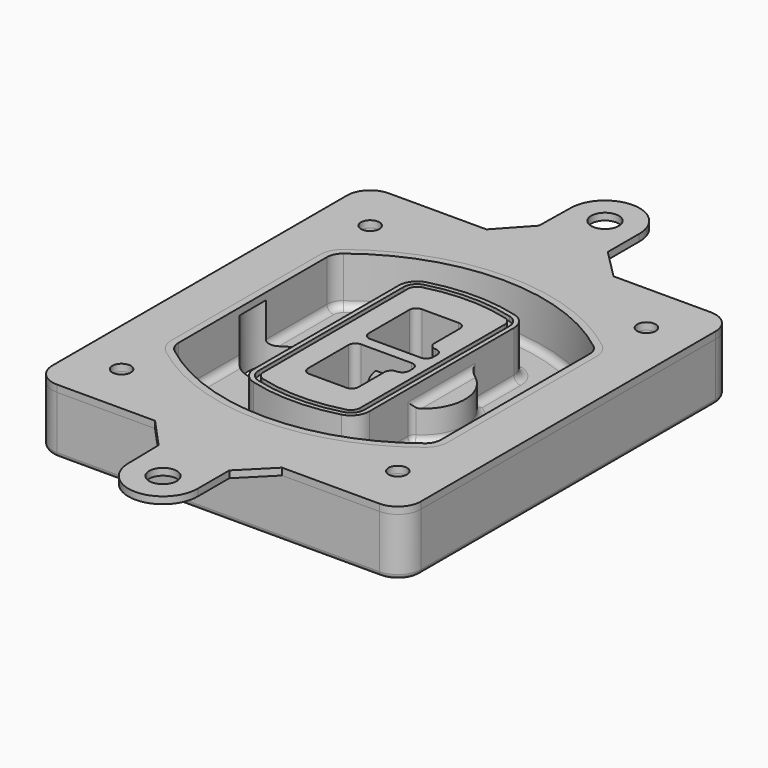
from build123d import *

# Parameters (mm, degrees)
F0_R      = 4
F1_DEPTH  = 25
F2_DEPTH  = 3
F3_DEPTH  = 18
F5_DEPTH  = 21
F6_DEPTH  = 2
F8_DEPTH  = 20
F9_DEPTH  = 16
F10_DEPTH = 25
F7_R      = 6
F7_R_2    = 4
F11_DEPTH = 6
F13_DEPTH = 9
F14_R     = 3
F15_R     = 2
F16_R     = 4
F16_R_2   = 6
F17_DEPTH = 3


with BuildPart() as f1:
    # F0 (on Top) → F1 (new body)
    with BuildSketch(Plane.XY):
        with BuildLine():
            ThreePointArc((-80, -80), (-77.0710678119, -87.0710678119), (-70, -90))
            Line((-70, -90), (70, -90))
            ThreePointArc((70, -90), (77.0710678119, -87.0710678119), (80, -80))
            Line((80, -80), (80, 80))
            ThreePointArc((80, 80), (77.0710678119, 87.0710678119), (70, 90))
            Line((70, 90), (-70, 90))
            ThreePointArc((-70, 90), (-77.0710678119, 87.0710678119), (-80, 80))
            Line((-80, 80), (-80, -80))
        make_face()
        with Locations((-60, -67.5)):
            Circle(F0_R, mode=Mode.SUBTRACT)
        with Locations((60, -67.5)):
            Circle(F0_R, mode=Mode.SUBTRACT)
        with Locations((-60, 67.5)):
            Circle(F0_R, mode=Mode.SUBTRACT)
        with BuildLine():
            ThreePointArc((-64, 40.2934422872), (-62.5820384798, 46.4328484224), (-58.6153846154, 51.3286200352))
            ThreePointArc((-58.6153846154, 51.3286200352), (0, 71.5), (58.6153846154, 51.3286200352))
            ThreePointArc((58.6153846154, 51.3286200352), (62.5820384798, 46.4328484224), (64, 40.2934422872))
            Line((64, 40.2934422872), (64, -40.2934422872))
            ThreePointArc((64, -40.2934422872), (62.5820384798, -46.4328484224), (58.6153846154, -51.3286200352))
            ThreePointArc((58.6153846154, -51.3286200352), (0, -71.5), (-58.6153846154, -51.3286200352))
            ThreePointArc((-58.6153846154, -51.3286200352), (-62.5820384798, -46.4328484224), (-64, -40.2934422872))
            Line((-64, -40.2934422872), (-64, 40.2934422872))
        make_face(mode=Mode.SUBTRACT)
        with Locations((60, 67.5)):
            Circle(F0_R, mode=Mode.SUBTRACT)
        with BuildLine():
            ThreePointArc((58.6153846154, 51.3286200352), (0, 71.5), (-58.6153846154, 51.3286200352))
            ThreePointArc((-58.6153846154, 51.3286200352), (-62.5820384798, 46.4328484224), (-64, 40.2934422872))
            Line((-64, 40.2934422872), (-64, -40.2934422872))
            ThreePointArc((-64, -40.2934422872), (-62.5820384798, -46.4328484224), (-58.6153846154, -51.3286200352))
            ThreePointArc((-58.6153846154, -51.3286200352), (0, -71.5), (58.6153846154, -51.3286200352))
            ThreePointArc((58.6153846154, -51.3286200352), (62.5820384798, -46.4328484224), (64, -40.2934422872))
            Line((64, -40.2934422872), (64, 40.2934422872))
            ThreePointArc((64, 40.2934422872), (62.5820384798, 46.4328484224), (58.6153846154, 51.3286200352))
        make_face()
        with BuildLine():
            Line((-60, -40.2934422872), (-60, 40.2934422872))
            ThreePointArc((-60, 40.2934422872), (-58.9871703427, 44.6787323838), (-56.1538461538, 48.1757121072))
            ThreePointArc((-56.1538461538, 48.1757121072), (0, 67.5), (56.1538461538, 48.1757121072))
            ThreePointArc((56.1538461538, 48.1757121072), (58.9871703427, 44.6787323838), (60, 40.2934422872))
            Line((60, 40.2934422872), (60, -40.2934422872))
            ThreePointArc((60, -40.2934422872), (58.9871703427, -44.6787323838), (56.1538461538, -48.1757121072))
            ThreePointArc((56.1538461538, -48.1757121072), (0, -67.5), (-56.1538461538, -48.1757121072))
            ThreePointArc((-56.1538461538, -48.1757121072), (-58.9871703427, -44.6787323838), (-60, -40.2934422872))
        make_face(mode=Mode.SUBTRACT)
        with BuildLine():
            ThreePointArc((-56.1538461538, 48.1757121072), (-58.9871703427, 44.6787323838), (-60, 40.2934422872))
            Line((-60, 40.2934422872), (-60, -40.2934422872))
            ThreePointArc((-60, -40.2934422872), (-58.9871703427, -44.6787323838), (-56.1538461538, -48.1757121072))
            ThreePointArc((-56.1538461538, -48.1757121072), (0, -67.5), (56.1538461538, -48.1757121072))
            ThreePointArc((56.1538461538, -48.1757121072), (58.9871703427, -44.6787323838), (60, -40.2934422872))
            Line((60, -40.2934422872), (60, 40.2934422872))
            ThreePointArc((60, 40.2934422872), (58.9871703427, 44.6787323838), (56.1538461538, 48.1757121072))
            ThreePointArc((56.1538461538, 48.1757121072), (0, 67.5), (-56.1538461538, 48.1757121072))
        make_face()
        with BuildLine():
            ThreePointArc((54.3076923077, 45.8110311612), (56.2910192399, 43.3631453548), (57, 40.2934422872))
            Line((57, 40.2934422872), (57, -40.2934422872))
            ThreePointArc((57, -40.2934422872), (56.2910192399, -43.3631453548), (54.3076923077, -45.8110311612))
            ThreePointArc((54.3076923077, -45.8110311612), (0, -64.5), (-54.3076923077, -45.8110311612))
            ThreePointArc((-54.3076923077, -45.8110311612), (-56.2910192399, -43.3631453548), (-57, -40.2934422872))
            Line((-57, -40.2934422872), (-57, 40.2934422872))
            ThreePointArc((-57, 40.2934422872), (-56.2910192399, 43.3631453548), (-54.3076923077, 45.8110311612))
            ThreePointArc((-54.3076923077, 45.8110311612), (0, 64.5), (54.3076923077, 45.8110311612))
        make_face(mode=Mode.SUBTRACT)
        with BuildLine():
            Line((57, -40.2934422872), (57, 40.2934422872))
            ThreePointArc((57, 40.2934422872), (56.2910192399, 43.3631453548), (54.3076923077, 45.8110311612))
            ThreePointArc((54.3076923077, 45.8110311612), (0, 64.5), (-54.3076923077, 45.8110311612))
            ThreePointArc((-54.3076923077, 45.8110311612), (-56.2910192399, 43.3631453548), (-57, 40.2934422872))
            Line((-57, 40.2934422872), (-57, -40.2934422872))
            ThreePointArc((-57, -40.2934422872), (-56.2910192399, -43.3631453548), (-54.3076923077, -45.8110311612))
            ThreePointArc((-54.3076923077, -45.8110311612), (0, -64.5), (54.3076923077, -45.8110311612))
            ThreePointArc((54.3076923077, -45.8110311612), (56.2910192399, -43.3631453548), (57, -40.2934422872))
        make_face()
    extrude(amount=-F1_DEPTH)

    # F0 (on Top) → F2 (join)
    with BuildSketch(Plane.XY):
        with BuildLine():
            ThreePointArc((-56.1538461538, 48.1757121072), (-58.9871703427, 44.6787323838), (-60, 40.2934422872))
            Line((-60, 40.2934422872), (-60, -40.2934422872))
            ThreePointArc((-60, -40.2934422872), (-58.9871703427, -44.6787323838), (-56.1538461538, -48.1757121072))
            ThreePointArc((-56.1538461538, -48.1757121072), (0, -67.5), (56.1538461538, -48.1757121072))
            ThreePointArc((56.1538461538, -48.1757121072), (58.9871703427, -44.6787323838), (60, -40.2934422872))
            Line((60, -40.2934422872), (60, 40.2934422872))
            ThreePointArc((60, 40.2934422872), (58.9871703427, 44.6787323838), (56.1538461538, 48.1757121072))
            ThreePointArc((56.1538461538, 48.1757121072), (0, 67.5), (-56.1538461538, 48.1757121072))
        make_face()
        with BuildLine():
            ThreePointArc((54.3076923077, 45.8110311612), (56.2910192399, 43.3631453548), (57, 40.2934422872))
            Line((57, 40.2934422872), (57, -40.2934422872))
            ThreePointArc((57, -40.2934422872), (56.2910192399, -43.3631453548), (54.3076923077, -45.8110311612))
            ThreePointArc((54.3076923077, -45.8110311612), (0, -64.5), (-54.3076923077, -45.8110311612))
            ThreePointArc((-54.3076923077, -45.8110311612), (-56.2910192399, -43.3631453548), (-57, -40.2934422872))
            Line((-57, -40.2934422872), (-57, 40.2934422872))
            ThreePointArc((-57, 40.2934422872), (-56.2910192399, 43.3631453548), (-54.3076923077, 45.8110311612))
            ThreePointArc((-54.3076923077, 45.8110311612), (0, 64.5), (54.3076923077, 45.8110311612))
        make_face(mode=Mode.SUBTRACT)
    extrude(amount=F2_DEPTH)

    # F0 (on Top) → F3 (cut)
    with BuildSketch(Plane.XY):
        with BuildLine():
            Line((57, -40.2934422872), (57, 40.2934422872))
            ThreePointArc((57, 40.2934422872), (56.2910192399, 43.3631453548), (54.3076923077, 45.8110311612))
            ThreePointArc((54.3076923077, 45.8110311612), (0, 64.5), (-54.3076923077, 45.8110311612))
            ThreePointArc((-54.3076923077, 45.8110311612), (-56.2910192399, 43.3631453548), (-57, 40.2934422872))
            Line((-57, 40.2934422872), (-57, -40.2934422872))
            ThreePointArc((-57, -40.2934422872), (-56.2910192399, -43.3631453548), (-54.3076923077, -45.8110311612))
            ThreePointArc((-54.3076923077, -45.8110311612), (0, -64.5), (54.3076923077, -45.8110311612))
            ThreePointArc((54.3076923077, -45.8110311612), (56.2910192399, -43.3631453548), (57, -40.2934422872))
        make_face()
    extrude(amount=-F3_DEPTH, mode=Mode.SUBTRACT)

    # F4 (on face) → F5 (join, through all)
    with BuildSketch(Plane.XY.offset(3)):
        with BuildLine():
            ThreePointArc((-25, -39.2465276821), (-23.3511545998, -44.1109737193), (-19.0842911877, -46.9702398883))
            ThreePointArc((-19.0842911877, -46.9702398883), (0, -49.5), (19.0842911877, -46.9702398883))
            ThreePointArc((19.0842911877, -46.9702398883), (23.3511545998, -44.1109737193), (25, -39.2465276821))
            Line((25, -39.2465276821), (25, 39.2465276821))
            ThreePointArc((25, 39.2465276821), (23.3511545998, 44.1109737193), (19.0842911877, 46.9702398883))
            ThreePointArc((19.0842911877, 46.9702398883), (0, 49.5), (-19.0842911877, 46.9702398883))
            ThreePointArc((-19.0842911877, 46.9702398883), (-23.3511545998, 44.1109737193), (-25, 39.2465276821))
            Line((-25, 39.2465276821), (-25, -39.2465276821))
        make_face()
        with BuildLine():
            ThreePointArc((18.5632183908, 45.0393118368), (21.7633659499, 42.89486221), (23, 39.2465276821))
            Line((23, 39.2465276821), (23, -39.2465276821))
            ThreePointArc((23, -39.2465276821), (21.7633659499, -42.89486221), (18.5632183908, -45.0393118368))
            ThreePointArc((18.5632183908, -45.0393118368), (0, -47.5), (-18.5632183908, -45.0393118368))
            ThreePointArc((-18.5632183908, -45.0393118368), (-21.7633659499, -42.89486221), (-23, -39.2465276821))
            Line((-23, -39.2465276821), (-23, 39.2465276821))
            ThreePointArc((-23, 39.2465276821), (-21.7633659499, 42.89486221), (-18.5632183908, 45.0393118368))
            ThreePointArc((-18.5632183908, 45.0393118368), (0, 47.5), (18.5632183908, 45.0393118368))
        make_face(mode=Mode.SUBTRACT)
        with BuildLine():
            Line((23, -39.2465276821), (23, 39.2465276821))
            ThreePointArc((23, 39.2465276821), (21.7633659499, 42.89486221), (18.5632183908, 45.0393118368))
            ThreePointArc((18.5632183908, 45.0393118368), (0, 47.5), (-18.5632183908, 45.0393118368))
            ThreePointArc((-18.5632183908, 45.0393118368), (-21.7633659499, 42.89486221), (-23, 39.2465276821))
            Line((-23, 39.2465276821), (-23, -39.2465276821))
            ThreePointArc((-23, -39.2465276821), (-21.7633659499, -42.89486221), (-18.5632183908, -45.0393118368))
            ThreePointArc((-18.5632183908, -45.0393118368), (0, -47.5), (18.5632183908, -45.0393118368))
            ThreePointArc((18.5632183908, -45.0393118368), (21.7633659499, -42.89486221), (23, -39.2465276821))
        make_face()
        with BuildLine():
            ThreePointArc((18.0421455939, 43.1083837852), (20.1755772999, 41.6787507007), (21, 39.2465276821))
            Line((21, 39.2465276821), (21, -39.2465276821))
            ThreePointArc((21, -39.2465276821), (20.1755772999, -41.6787507007), (18.0421455939, -43.1083837852))
            ThreePointArc((18.0421455939, -43.1083837852), (0, -45.5), (-18.0421455939, -43.1083837852))
            ThreePointArc((-18.0421455939, -43.1083837852), (-20.1755772999, -41.6787507007), (-21, -39.2465276821))
            Line((-21, -39.2465276821), (-21, 39.2465276821))
            ThreePointArc((-21, 39.2465276821), (-20.1755772999, 41.6787507007), (-18.0421455939, 43.1083837852))
            ThreePointArc((-18.0421455939, 43.1083837852), (0, 45.5), (18.0421455939, 43.1083837852))
        make_face(mode=Mode.SUBTRACT)
        with BuildLine():
            Line((21, -39.2465276821), (21, 39.2465276821))
            ThreePointArc((21, 39.2465276821), (20.1755772999, 41.6787507007), (18.0421455939, 43.1083837852))
            ThreePointArc((18.0421455939, 43.1083837852), (0, 45.5), (-18.0421455939, 43.1083837852))
            ThreePointArc((-18.0421455939, 43.1083837852), (-20.1755772999, 41.6787507007), (-21, 39.2465276821))
            Line((-21, 39.2465276821), (-21, -39.2465276821))
            ThreePointArc((-21, -39.2465276821), (-20.1755772999, -41.6787507007), (-18.0421455939, -43.1083837852))
            ThreePointArc((-18.0421455939, -43.1083837852), (0, -45.5), (18.0421455939, -43.1083837852))
            ThreePointArc((18.0421455939, -43.1083837852), (20.1755772999, -41.6787507007), (21, -39.2465276821))
        make_face()
        with BuildLine():
            Line((-8, -2.5), (14, -2.5))
            ThreePointArc((14, -2.5), (16.1213203436, -3.3786796564), (17, -5.5))
            Line((17, -5.5), (17, -7.5))
            ThreePointArc((17, -7.5), (16.1213203436, -9.6213203436), (14, -10.5))
            ThreePointArc((14, -10.5), (11.8786796564, -11.3786796564), (11, -13.5))
            Line((11, -13.5), (11, -27.5))
            ThreePointArc((11, -27.5), (10.1213203436, -29.6213203436), (8, -30.5))
            Line((8, -30.5), (-8, -30.5))
            ThreePointArc((-8, -30.5), (-10.1213203436, -29.6213203436), (-11, -27.5))
            Line((-11, -27.5), (-11, -5.5))
            ThreePointArc((-11, -5.5), (-10.1213203436, -3.3786796564), (-8, -2.5))
        make_face(mode=Mode.SUBTRACT)
        with BuildLine():
            ThreePointArc((-8, 2.5), (-10.1213203436, 3.3786796564), (-11, 5.5))
            Line((-11, 5.5), (-11, 27.5))
            ThreePointArc((-11, 27.5), (-10.1213203436, 29.6213203436), (-8, 30.5))
            Line((-8, 30.5), (8, 30.5))
            ThreePointArc((8, 30.5), (10.1213203436, 29.6213203436), (11, 27.5))
            Line((11, 27.5), (11, 13.5))
            ThreePointArc((11, 13.5), (11.8786796564, 11.3786796564), (14, 10.5))
            ThreePointArc((14, 10.5), (16.1213203436, 9.6213203436), (17, 7.5))
            Line((17, 7.5), (17, 5.5))
            ThreePointArc((17, 5.5), (16.1213203436, 3.3786796564), (14, 2.5))
            Line((14, 2.5), (-8, 2.5))
        make_face(mode=Mode.SUBTRACT)
    extrude(amount=-F5_DEPTH)

    # F4 (on face) → F6 (cut)
    with BuildSketch(Plane.XY.offset(3)):
        with BuildLine():
            Line((23, -39.2465276821), (23, 39.2465276821))
            ThreePointArc((23, 39.2465276821), (21.7633659499, 42.89486221), (18.5632183908, 45.0393118368))
            ThreePointArc((18.5632183908, 45.0393118368), (0, 47.5), (-18.5632183908, 45.0393118368))
            ThreePointArc((-18.5632183908, 45.0393118368), (-21.7633659499, 42.89486221), (-23, 39.2465276821))
            Line((-23, 39.2465276821), (-23, -39.2465276821))
            ThreePointArc((-23, -39.2465276821), (-21.7633659499, -42.89486221), (-18.5632183908, -45.0393118368))
            ThreePointArc((-18.5632183908, -45.0393118368), (0, -47.5), (18.5632183908, -45.0393118368))
            ThreePointArc((18.5632183908, -45.0393118368), (21.7633659499, -42.89486221), (23, -39.2465276821))
        make_face()
        with BuildLine():
            ThreePointArc((18.0421455939, 43.1083837852), (20.1755772999, 41.6787507007), (21, 39.2465276821))
            Line((21, 39.2465276821), (21, -39.2465276821))
            ThreePointArc((21, -39.2465276821), (20.1755772999, -41.6787507007), (18.0421455939, -43.1083837852))
            ThreePointArc((18.0421455939, -43.1083837852), (0, -45.5), (-18.0421455939, -43.1083837852))
            ThreePointArc((-18.0421455939, -43.1083837852), (-20.1755772999, -41.6787507007), (-21, -39.2465276821))
            Line((-21, -39.2465276821), (-21, 39.2465276821))
            ThreePointArc((-21, 39.2465276821), (-20.1755772999, 41.6787507007), (-18.0421455939, 43.1083837852))
            ThreePointArc((-18.0421455939, 43.1083837852), (0, 45.5), (18.0421455939, 43.1083837852))
        make_face(mode=Mode.SUBTRACT)
    extrude(amount=-F6_DEPTH, mode=Mode.SUBTRACT)

    # F7 (on face) → F8 (join)
    with BuildSketch(Plane(origin=(0, 0, -25), x_dir=(1, 0, 0), z_dir=(0, 0, -1))):
        with BuildLine():
            ThreePointArc((3.28842436, 0), (16.7567035675, 13.4682792075), (30.224982775, 0))
            Line((30.224982775, 0), (35.224982775, 0))
            ThreePointArc((35.224982775, 0), (16.7567035675, 18.4682792075), (-1.71157564, 0))
            Line((-1.71157564, 0), (3.28842436, 0))
        make_face()
        with BuildLine():
            Line((3.28842436, 0), (30.224982775, 0))
            ThreePointArc((30.224982775, 0), (16.7567035675, 13.4682792075), (3.28842436, 0))
        make_face()
        with BuildLine():
            ThreePointArc((3.28842436, 0), (16.7567035675, -13.4682792075), (30.224982775, 0))
            Line((30.224982775, 0), (3.28842436, 0))
        make_face()
        with BuildLine():
            Line((35.224982775, 0), (30.224982775, 0))
            ThreePointArc((30.224982775, 0), (16.7567035675, -13.4682792075), (3.28842436, 0))
            Line((3.28842436, 0), (-1.71157564, 0))
            ThreePointArc((-1.71157564, 0), (16.7567035675, -18.4682792075), (35.224982775, 0))
        make_face()
    extrude(amount=-F8_DEPTH)

    # F7 (on face) → F9 (cut)
    with BuildSketch(Plane(origin=(0, 0, -25), x_dir=(1, 0, 0), z_dir=(0, 0, -1))):
        with BuildLine():
            Line((3.28842436, 0), (30.224982775, 0))
            ThreePointArc((30.224982775, 0), (16.7567035675, 13.4682792075), (3.28842436, 0))
        make_face()
        with BuildLine():
            ThreePointArc((3.28842436, 0), (16.7567035675, -13.4682792075), (30.224982775, 0))
            Line((30.224982775, 0), (3.28842436, 0))
        make_face()
    extrude(amount=-F9_DEPTH, mode=Mode.SUBTRACT)

    # F7 (on face) → F10 (cut)
    with BuildSketch(Plane(origin=(0, 0, -25), x_dir=(1, 0, 0), z_dir=(0, 0, -1))):
        with BuildLine():
            Line((-59.0318229325, 0), (-32.0952645175, 0))
            ThreePointArc((-32.0952645175, 0), (-45.563543725, 13.4682792075), (-59.0318229325, 0))
        make_face()
        with BuildLine():
            ThreePointArc((-59.0318229325, 0), (-45.563543725, -13.4682792075), (-32.0952645175, 0))
            Line((-32.0952645175, 0), (-59.0318229325, 0))
        make_face()
    extrude(amount=-F10_DEPTH, mode=Mode.SUBTRACT)

    # F7 (on face) → F11 (cut)
    with BuildSketch(Plane(origin=(0, 0, -25), x_dir=(1, 0, 0), z_dir=(0, 0, -1))):
        with Locations((60, -67.5)):
            Circle(F7_R)
        with Locations((60, -67.5)):
            Circle(F7_R_2, mode=Mode.SUBTRACT)
        with Locations((60, -67.5)):
            Circle(F7_R)
        with Locations((60, -67.5)):
            Circle(F7_R_2, mode=Mode.SUBTRACT)
        with Locations((-60, -67.5)):
            Circle(F7_R)
        with Locations((-60, -67.5)):
            Circle(F7_R_2, mode=Mode.SUBTRACT)
        with Locations((-60, -67.5)):
            Circle(F7_R)
        with Locations((-60, -67.5)):
            Circle(F7_R_2, mode=Mode.SUBTRACT)
        with Locations((-60, 67.5)):
            Circle(F7_R)
        with Locations((-60, 67.5)):
            Circle(F7_R_2, mode=Mode.SUBTRACT)
        with Locations((-60, 67.5)):
            Circle(F7_R)
        with Locations((-60, 67.5)):
            Circle(F7_R_2, mode=Mode.SUBTRACT)
        with Locations((60, 67.5)):
            Circle(F7_R)
        with Locations((60, 67.5)):
            Circle(F7_R_2, mode=Mode.SUBTRACT)
        with Locations((60, 67.5)):
            Circle(F7_R)
        with Locations((60, 67.5)):
            Circle(F7_R_2, mode=Mode.SUBTRACT)
    extrude(amount=-F11_DEPTH, mode=Mode.SUBTRACT)

    # F12 (on face) → F13 (cut, through all)
    with BuildSketch(Plane(origin=(0, 0, -9), x_dir=(1, 0, 0), z_dir=(0, 0, -1))):
        with BuildLine():
            Line((11, 13.5), (11, 17.5481537753))
            ThreePointArc((11, 17.5481537753), (2.5696536419, 11.8239143813), (-1.5415842455, 2.5))
            Line((-1.5415842455, 2.5), (3.5224848595, 2.5))
            ThreePointArc((3.5224848595, 2.5), (6.1857188154, 8.3455872281), (11.2536447004, 12.2927168648))
            ThreePointArc((11.2536447004, 12.2927168648), (11.0640958889, 12.8831798879), (11, 13.5))
        make_face()
        with BuildLine():
            ThreePointArc((11.2536447004, -12.2927168648), (6.1857188154, -8.3455872281), (3.5224848595, -2.5))
            Line((3.5224848595, -2.5), (-1.5415842455, -2.5))
            ThreePointArc((-1.5415842455, -2.5), (2.5696536419, -11.8239143813), (11, -17.5481537753))
            Line((11, -17.5481537753), (11, -13.5))
            ThreePointArc((11, -13.5), (11.0640958889, -12.8831798879), (11.2536447004, -12.2927168648))
        make_face()
        with BuildLine():
            ThreePointArc((11.2536447004, 12.2927168648), (6.1857188154, 8.3455872281), (3.5224848595, 2.5))
            Line((3.5224848595, 2.5), (14, 2.5))
            ThreePointArc((14, 2.5), (16.1213203436, 3.3786796564), (17, 5.5))
            Line((17, 5.5), (17, 7.5))
            ThreePointArc((17, 7.5), (16.1213203436, 9.6213203436), (14, 10.5))
            ThreePointArc((14, 10.5), (12.3601599782, 10.9878446101), (11.2536447004, 12.2927168648))
        make_face()
        with BuildLine():
            Line((14, -2.5), (3.5224848595, -2.5))
            ThreePointArc((3.5224848595, -2.5), (6.1857188154, -8.3455872281), (11.2536447004, -12.2927168648))
            ThreePointArc((11.2536447004, -12.2927168648), (12.3601599782, -10.9878446101), (14, -10.5))
            ThreePointArc((14, -10.5), (16.1213203436, -9.6213203436), (17, -7.5))
            Line((17, -7.5), (17, -5.5))
            ThreePointArc((17, -5.5), (16.1213203436, -3.3786796564), (14, -2.5))
        make_face()
    extrude(amount=F13_DEPTH, mode=Mode.SUBTRACT)

    # F14
    f14_edges = [f1.edges().sort_by_distance(p)[0] for p in [
        (-57, -23.703476, -18),
        (-57, 23.703476, -18),
        (25, 0, -5),
        (25, 16.526506, -11.5),
        (25, -16.526506, -11.5),
        (25, -27.886517, -18),
        (35.224983, 0, -18),
    ]]
    fillet(f14_edges, radius=F14_R)

    # F15
    f15_edges = [f1.edges().sort_by_distance(p)[0] for p in [
        (0, -90, -25),
    ]]
    fillet(f15_edges, radius=F15_R)


with BuildPart() as f17:
    # F16 (on face) → F17 (new body, through all)
    with BuildSketch(Plane.XY):
        with BuildLine():
            ThreePointArc((70, -90), (77.0710678119, -87.0710678119), (80, -80))
            Line((80, -80), (80, 80))
            ThreePointArc((80, 80), (77.0710678119, 87.0710678119), (70, 90))
            Line((70, 90), (27.6938691659, 90))
            Line((27.6938691659, 90), (-27.462250179, 90))
            Line((-27.462250179, 90), (-70, 90))
            ThreePointArc((-70, 90), (-77.0710678119, 87.0710678119), (-80, 80))
            Line((-80, 80), (-80, -80))
            ThreePointArc((-80, -80), (-77.0710678119, -87.0710678119), (-70, -90))
            Line((-70, -90), (-27.462250179, -90))
            Line((-27.462250179, -90), (27.6938691659, -90))
            Line((27.6938691659, -90), (70, -90))
        make_face()
        with Locations((-60, -67.5)):
            Circle(F16_R, mode=Mode.SUBTRACT)
        with Locations((60, -67.5)):
            Circle(F16_R, mode=Mode.SUBTRACT)
        with Locations((-60, 67.5)):
            Circle(F16_R, mode=Mode.SUBTRACT)
        with BuildLine():
            ThreePointArc((60, -40.2934422872), (58.9871703427, -44.6787323838), (56.1538461538, -48.1757121072))
            ThreePointArc((56.1538461538, -48.1757121072), (0, -67.5), (-56.1538461538, -48.1757121072))
            ThreePointArc((-56.1538461538, -48.1757121072), (-58.9871703427, -44.6787323838), (-60, -40.2934422872))
            Line((-60, -40.2934422872), (-60, 40.2934422872))
            ThreePointArc((-60, 40.2934422872), (-58.9871703427, 44.6787323838), (-56.1538461538, 48.1757121072))
            ThreePointArc((-56.1538461538, 48.1757121072), (0, 67.5), (56.1538461538, 48.1757121072))
            ThreePointArc((56.1538461538, 48.1757121072), (58.9871703427, 44.6787323838), (60, 40.2934422872))
            Line((60, 40.2934422872), (60, -40.2934422872))
        make_face(mode=Mode.SUBTRACT)
        with Locations((60, 67.5)):
            Circle(F16_R, mode=Mode.SUBTRACT)
        with BuildLine():
            Line((14.9980794529, -102.7599734939), (27.6938691659, -90))
            Line((27.6938691659, -90), (-27.462250179, -90))
            Line((-27.462250179, -90), (-15.2952551971, -103.2651510776))
            Line((-15.2952551971, -103.2651510776), (-14.9977021295, -120.2625468244))
            ThreePointArc((-14.9977021295, -120.2625468244), (0.2512867361, -134.9978950182), (14.9980794529, -119.7599734939))
            Line((14.9980794529, -119.7599734939), (14.9980794529, -102.7599734939))
        make_face()
        with Locations((0, -120)):
            Circle(F16_R_2, mode=Mode.SUBTRACT)
        with BuildLine():
            Line((-27.462250179, 90), (27.6938691659, 90))
            Line((27.6938691659, 90), (14.9980794529, 102.7599734939))
            Line((14.9980794529, 102.7599734939), (14.9980794529, 119.7599734939))
            ThreePointArc((14.9980794529, 119.7599734939), (0.2512867361, 134.9978950182), (-14.9977021295, 120.2625468244))
            Line((-14.9977021295, 120.2625468244), (-15.2952551971, 103.2651510776))
            Line((-15.2952551971, 103.2651510776), (-27.462250179, 90))
        make_face()
        with Locations((0, 120)):
            Circle(F16_R_2, mode=Mode.SUBTRACT)
    extrude(amount=F17_DEPTH)


solid = Compound([f1.part, f17.part])
